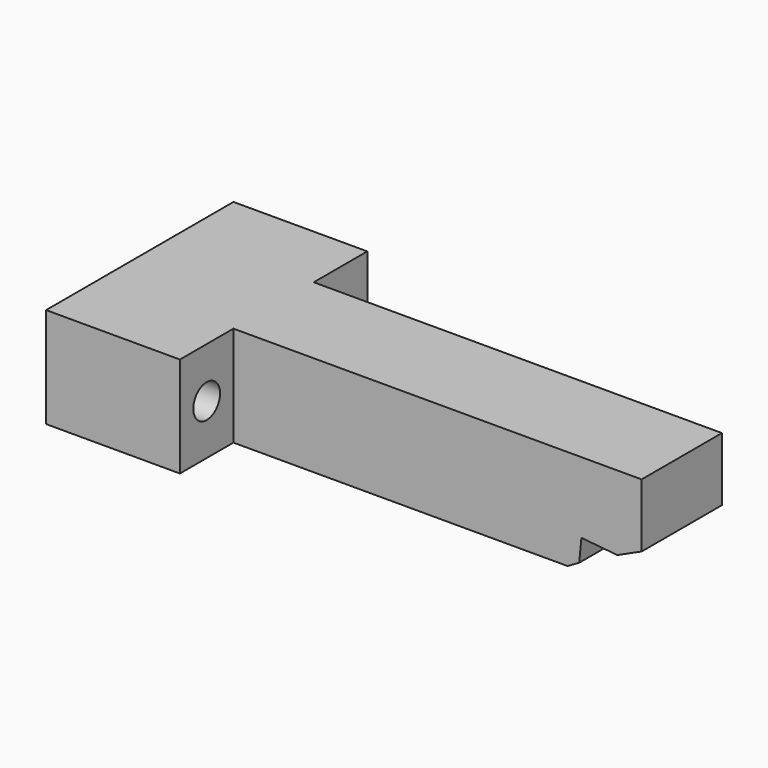
from build123d import *

# Parameters (mm, degrees)
F0_W     = 20
F0_H     = 7.5
F1_DEPTH = 35
F3_DEPTH = 15.001
F4_R     = 2.5
F6_DEPTH = 20.001
F5_R     = 2
F7_DEPTH = 6


with BuildPart() as f1:
    # F0 (on Front) → F1 (new body)
    with BuildSketch(Plane.XZ):
        with Locations((-86.824563, -45.478924)):
            Rectangle(F0_W, F0_H)
        Polygon((-76.824563, -41.728924), (-76.824563, -49.228924), (-26.88636, -49.228924), (-25.15431, -48.228924), (-24.818535, -44.838258), (-19.468897, -45.368028), (-15.824563, -43.719141), (-15.824563, -34.228924), (-76.824563, -34.228924), (-76.824563, -39.228924), align=None)
        Polygon((-96.824563, -39.228924), (-96.824563, -41.728924), (-76.824563, -41.728924), (-76.824563, -39.228924), (-76.824563, -34.228924), (-96.824563, -34.228924), align=None)
    extrude(amount=F1_DEPTH)

    # F2 (on face) → F3 (cut, through all)
    with BuildSketch(Plane.XY.offset(-34.228924)):
        Polygon((-76.824563, -30), (-76.824563, -35), (-15.824563, -35), (-15.824563, -25), (-24.818535, -25), (-76.824563, -25), align=None)
        Polygon((-76.824563, 0), (-76.824563, -5), (-76.824563, -10), (-24.818535, -10), (-15.824563, -10), (-15.824563, 0), align=None)
    extrude(amount=-F3_DEPTH, mode=Mode.SUBTRACT)

    # F4 (on face) → F6 (cut, through all)
    with BuildSketch(Plane.YZ.offset(-76.824563)):
        with Locations((-5, -41.728924)):
            Circle(F4_R)
        with Locations((-30, -41.728924)):
            Circle(F4_R)
    extrude(amount=-F6_DEPTH, mode=Mode.SUBTRACT)

    # F5 (on face) → F7 (cut)
    with BuildSketch(Plane(origin=(-96.824563, 0, 0), x_dir=(0, -1, 0), z_dir=(-1, 0, 0))):
        with Locations((22.5, -41.728924)):
            Circle(F5_R)
        with Locations((12.5, -41.728924)):
            Circle(F5_R)
    extrude(amount=-F7_DEPTH, mode=Mode.SUBTRACT)


solid = f1.part
